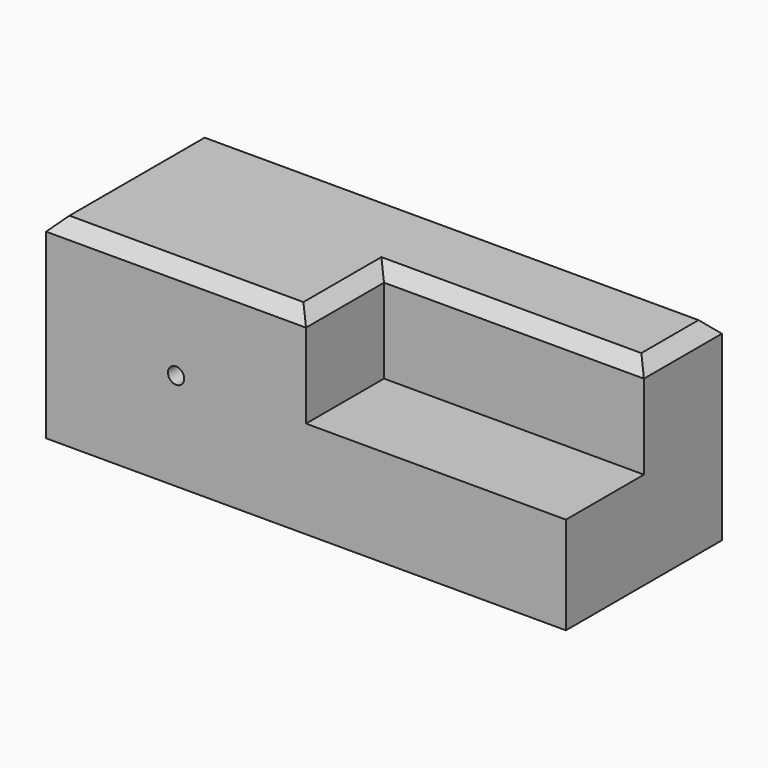
from build123d import *

# Parameters (mm, degrees)
F0_W     = 203.2
F0_H     = 76.2
F1_DEPTH = 76.2
F2_W     = 101.6
F2_H     = 38.1
F3_DEPTH = 38.1
F4_SIZE  = 5.08
F6_D     = 6.35


with BuildPart() as f1:
    # F0 (on Front) → F1 (new body)
    with BuildSketch(Plane.XZ):
        with Locations((101.6, 38.1)):
            Rectangle(F0_W, F0_H)
    extrude(amount=F1_DEPTH)

    # F2 (on face) → F3 (cut)
    with BuildSketch(Plane.XY.offset(76.2)):
        with Locations((152.4, -57.15)):
            Rectangle(F2_W, F2_H)
    extrude(amount=-F3_DEPTH, mode=Mode.SUBTRACT)

    # F4
    f4_edges = [f1.edges().sort_by_distance(p)[0] for p in [
        (50.8, -76.2, 76.2),
        (101.6, 0, 76.2),
        (0, -38.1, 76.2),
        (101.6, -57.15, 76.2),
        (152.4, -38.1, 76.2),
        (203.2, -19.05, 76.2),
    ]]
    chamfer(f4_edges, length=F4_SIZE)

    # F6 (through all)
    with Locations(Plane.XZ.offset(76.2)):
        with Locations((50.8, 38.1)):
            Hole(F6_D / 2)


solid = f1.part
